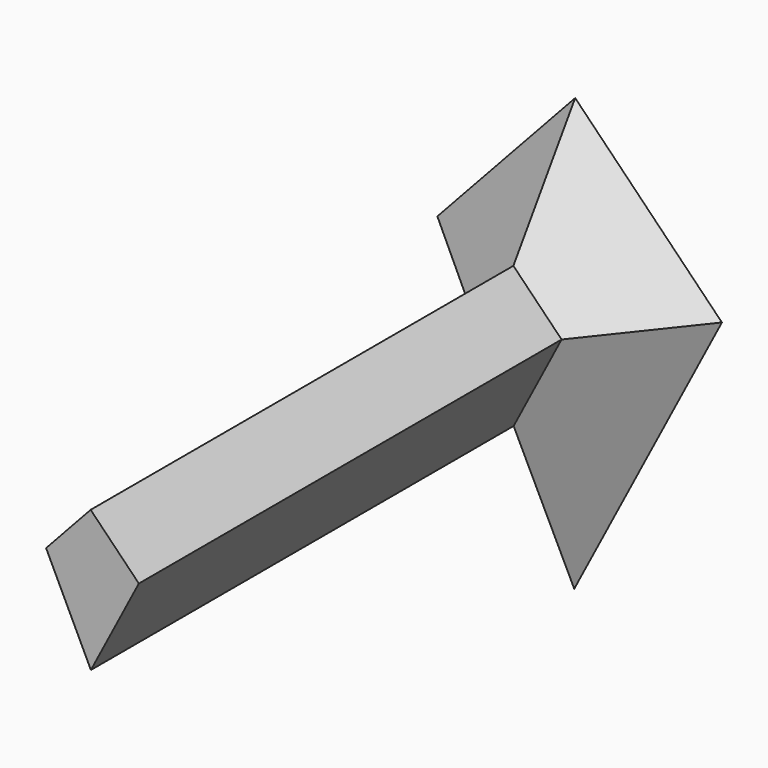
from build123d import *

# Parameters (mm, degrees)
F1_DEPTH = 100
F2_DEPTH = 15
F2_TAPER = -45


with BuildPart() as f1:
    # F0 (on Front) → F1 (new body)
    with BuildSketch(Plane.XZ):
        Polygon((-0.1822671791, 11.2663906845), (-8.618093033, 2.1458949195), (-0.1375637321, -15.4114313191), (8.9392346026, 1.9508140394), align=None)
    extrude(amount=F1_DEPTH)

    # F1_face (on face) → F2 (join)
    with BuildSketch(Plane(origin=(0.0560458234, 0, -0.7001079654), x_dir=(1, 0, 0), z_dir=(0, 1, 0))):
        Polygon((-8.6741388563, -2.8460028849), (-0.2383130025, -11.9664986499), (8.8831887792, -2.6509220048), (-0.1936095555, 14.7113233537), align=None)
    extrude(amount=F2_DEPTH, taper=F2_TAPER)


solid = f1.part
